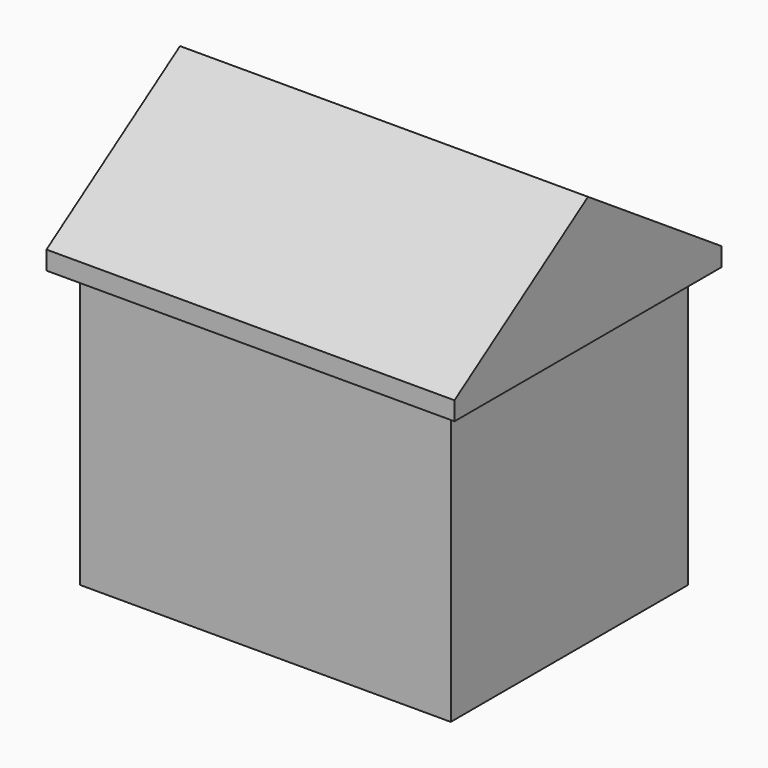
from build123d import *

# Parameters (mm, degrees)
F0_W     = 3048
F0_H     = 2438.4
F1_DEPTH = 2286
F2_W     = 3352.8
F2_H     = 2743.2
F3_DEPTH = 152.4
F5_DEPTH = 3352.8
F6_T     = -101.6


with BuildPart() as f1:
    # F0 (on Top) → F1 (new body)
    with BuildSketch(Plane.XY):
        with Locations((-1524, -482.2714296149)):
            Rectangle(F0_W, F0_H)
    extrude(amount=F1_DEPTH)

    # F2 (on face) → F3 (join)
    with BuildSketch(Plane.XY.offset(2286)):
        with Locations((-1524, -482.2714296149)):
            Rectangle(F2_W, F2_H)
    extrude(amount=F3_DEPTH)

    # F4 (on face) → F5 (join, through all)
    with BuildSketch(Plane.YZ.offset(152.4)):
        Polygon((-482.2714296149, 3352.8), (-1853.8714296149, 2438.4), (-482.2714296149, 2438.4), align=None)
        Polygon((889.3285703851, 2438.4), (-482.2714296149, 3352.8), (-482.2714296149, 2438.4), align=None)
    extrude(amount=-F5_DEPTH)

    # F6
    f6_openings = [f1.faces().sort_by_distance(p)[0] for p in [
        (-1524, -482.27143, 0),
    ]]
    offset(amount=F6_T, openings=f6_openings, kind=Kind.INTERSECTION)


solid = f1.part
